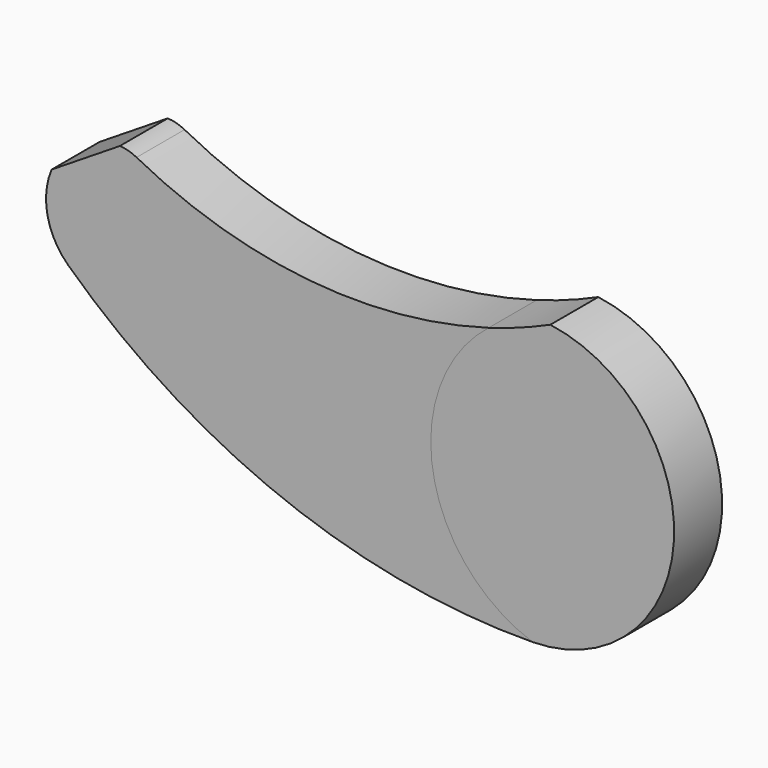
from build123d import *

# Parameters (mm, degrees)
F1_DEPTH = 15.24
F2_DEPTH = 15.24


with BuildPart() as f1:
    # F0 (on Front) → F1 (new body)
    with BuildSketch(Plane.XZ):
        with BuildLine():
            Line((-63.493849, 36.797924), (-80.820679, 25.891539))
            ThreePointArc((-80.820679, 25.891539), (-81.850308, 15.211303), (-76.589, 5.860035))
            ThreePointArc((-76.589, 5.860035), (-22.044712, -28.53109), (41.398747, -40.053079))
            ThreePointArc((41.398747, -40.053079), (16.057753, -10.026182), (30.23501, 26.617862))
            ThreePointArc((30.23501, 26.617862), (-15.377662, 22.429645), (-59.236111, 35.63924))
            ThreePointArc((-59.236111, 35.63924), (-61.301317, 36.45252), (-63.493849, 36.797924))
        make_face()
    extrude(amount=F1_DEPTH)


with BuildPart() as f2:
    # F0 (on Front) → F2 (new body)
    with BuildSketch(Plane.XZ):
        with BuildLine():
            ThreePointArc((30.23501, 26.617862), (16.057753, -10.026182), (41.398747, -40.053079))
            ThreePointArc((41.398747, -40.053079), (77.291588, -5.919742), (45.899271, 32.393483))
            ThreePointArc((45.899271, 32.393483), (38.167717, 29.232894), (30.23501, 26.617862))
        make_face()
    extrude(amount=F2_DEPTH)


solid = Compound([f1.part, f2.part])
